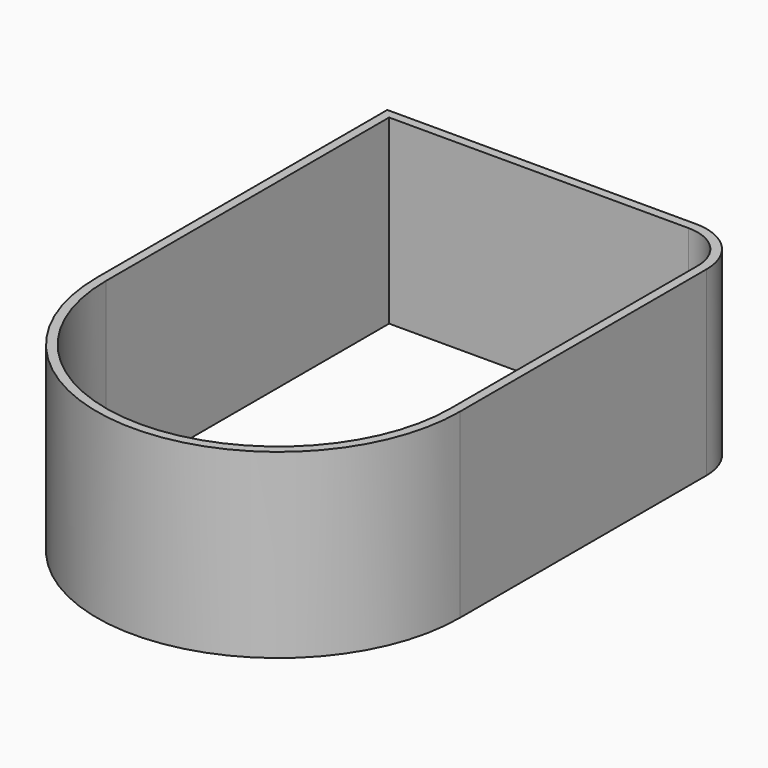
from build123d import *

# Parameters (mm, degrees)
F1_DEPTH = 10


with BuildPart() as f1:
    # F0 (on Top) → F1 (new body)
    with BuildSketch(Plane.XY):
        with BuildLine():
            Line((7, 10), (-10, 10))
            Line((-10, 10), (-10, -10))
            ThreePointArc((-10, -10), (0, -20), (10, -10))
            Line((10, -10), (10, 7))
            ThreePointArc((10, 7), (9.12132, 9.12132), (7, 10))
        make_face()
        with BuildLine():
            ThreePointArc((7, 9.5), (8.767767, 8.767767), (9.5, 7))
            Line((9.5, 7), (9.5, -10))
            ThreePointArc((9.5, -10), (0, -19.5), (-9.5, -10))
            Line((-9.5, -10), (-9.5, 9.5))
            Line((-9.5, 9.5), (7, 9.5))
        make_face(mode=Mode.SUBTRACT)
    extrude(amount=F1_DEPTH)


solid = f1.part
